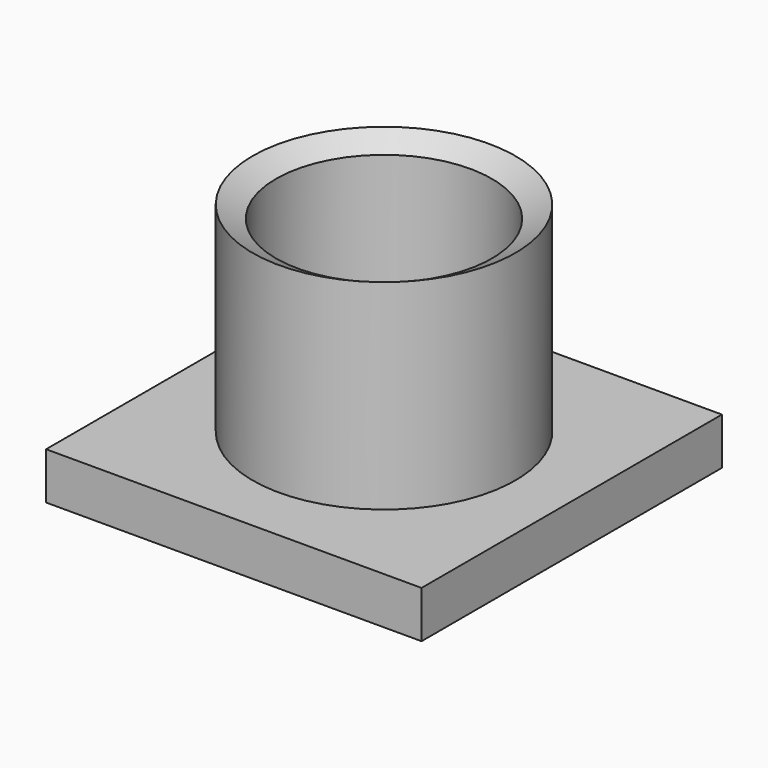
from build123d import *

# Parameters (mm, degrees)
F0_W     = 40
F0_H     = 40
F1_DEPTH = 5


with BuildPart() as f1:
    # F0 (on Top) → F1 (new body)
    with BuildSketch(Plane.XY):
        Rectangle(F0_W, F0_H)
    extrude(amount=F1_DEPTH)

    # F2 (on Front) → F3 (revolve)
    with BuildSketch(Plane.XZ):
        Polygon((-14, 26.329274), (-14, 5), (-11.5, 5), (-11.5, 25), align=None)
    revolve(axis=Axis((0, 0, 17.722977), (0, 0, -1)))


solid = f1.part
